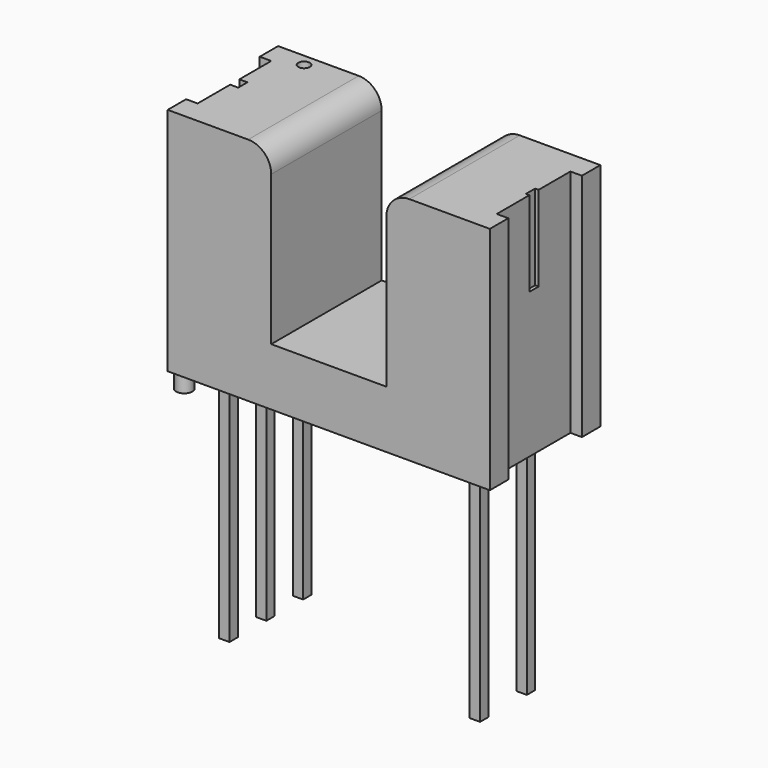
from build123d import *

# Parameters (mm, degrees)
CYLINDER_R        = 0.35
CYLINDER_DEPTH    = 1
CYLINDER001_R     = 0.35
CYLINDER001_DEPTH = 1
BOX_W             = 0.45
BOX_H             = 0.45
BOX_DEPTH         = 11
BOX001_W          = 0.45
BOX001_H          = 0.45
BOX001_DEPTH      = 11
BOX002_W          = 0.45
BOX002_H          = 0.45
BOX002_DEPTH      = 11
BOX003_W          = 0.45
BOX003_H          = 0.45
BOX003_DEPTH      = 11
BOX004_W          = 0.45
BOX004_H          = 0.45
BOX004_DEPTH      = 11
CYLINDER002_R     = 0.25
CYLINDER002_DEPTH = 1
BOX006_W          = 0.5
BOX006_H          = 0.5
BOX006_DEPTH      = 4
BOX007_W          = 0.5
BOX007_H          = 0.5
BOX007_DEPTH      = 4
BOX005_W          = 5
BOX005_H          = 8
BOX005_DEPTH      = 7.5
PAD_DEPTH         = 10
FILLET_R          = 1
FILLET001_R       = 1


with BuildPart() as support_beneath002:
    # Cylinder → Cylinder (new body)
    with BuildSketch(Plane(origin=(-1.45, -4.6, -0.7), x_dir=(1, 0, 0), z_dir=(0, 0, 1))):
        Circle(CYLINDER_R)
    extrude(amount=CYLINDER_DEPTH)


with BuildPart() as support_beneath001:
    # Cylinder001 → Cylinder001 (new body)
    with BuildSketch(Plane(origin=(7.5, 0.6, -0.7), x_dir=(1, 0, 0), z_dir=(0, 0, 1))):
        Circle(CYLINDER001_R)
    extrude(amount=CYLINDER001_DEPTH)


with BuildPart() as pin001:
    # Box → Box (new body)
    with BuildSketch(Plane(origin=(-0.23, -0.23, -10), x_dir=(1, 0, 0), z_dir=(0, 0, 1))):
        with Locations((0.225, 0.225)):
            Rectangle(BOX_W, BOX_H)
    extrude(amount=BOX_DEPTH)


with BuildPart() as pin003:
    # Box001 → Box001 (new body)
    with BuildSketch(Plane(origin=(-0.23, -4.23, -10), x_dir=(1, 0, 0), z_dir=(0, 0, 1))):
        with Locations((0.225, 0.225)):
            Rectangle(BOX001_W, BOX001_H)
    extrude(amount=BOX001_DEPTH)


with BuildPart() as pin005:
    # Box002 → Box002 (new body)
    with BuildSketch(Plane(origin=(10.075, -0.96, -10), x_dir=(1, 0, 0), z_dir=(0, 0, 1))):
        with Locations((0.225, 0.225)):
            Rectangle(BOX002_W, BOX002_H)
    extrude(amount=BOX002_DEPTH)


with BuildPart() as pin002:
    # Box003 → Box003 (new body)
    with BuildSketch(Plane(origin=(-0.23, -2.23, -10), x_dir=(1, 0, 0), z_dir=(0, 0, 1))):
        with Locations((0.225, 0.225)):
            Rectangle(BOX003_W, BOX003_H)
    extrude(amount=BOX003_DEPTH)


with BuildPart() as pin004:
    # Box004 → Box004 (new body)
    with BuildSketch(Plane(origin=(10.075, -3.5, -10), x_dir=(1, 0, 0), z_dir=(0, 0, 1))):
        with Locations((0.225, 0.225)):
            Rectangle(BOX004_W, BOX004_H)
    extrude(amount=BOX004_DEPTH)


with BuildPart() as vcc_marking:
    # Cylinder002 → Cylinder002 (new body)
    with BuildSketch(Plane(origin=(-0.3, 1.2, 10), x_dir=(1, 0, 0), z_dir=(0, 0, 1))):
        Circle(CYLINDER002_R)
    extrude(amount=CYLINDER002_DEPTH)


with BuildPart() as kub006:
    # Box006 → Box006 (new body)
    with BuildSketch(Plane(origin=(-1.5, -1.5, 7), x_dir=(1, 0, 0), z_dir=(0, 0, 1))):
        with Locations((0.25, 0.25)):
            Rectangle(BOX006_W, BOX006_H)
    extrude(amount=BOX006_DEPTH)


with BuildPart() as kub007:
    # Box007 → Box007 (new body)
    with BuildSketch(Plane(origin=(11.5, -1.5, 7), x_dir=(1, 0, 0), z_dir=(0, 0, 1))):
        with Locations((0.25, 0.25)):
            Rectangle(BOX007_W, BOX007_H)
    extrude(amount=BOX007_DEPTH)


with BuildPart() as kub005:
    # Box005 → Box005 (new body)
    with BuildSketch(Plane(origin=(2.65, -5, 3.2), x_dir=(1, 0, 0), z_dir=(0, 0, 1))):
        with Locations((2.5, 4)):
            Rectangle(BOX005_W, BOX005_H)
    extrude(amount=BOX005_DEPTH)


with BuildPart() as cut003:
    # Sketch → Pad (new body)
    with BuildSketch(Plane.XY):
        Polygon((-1.85, 1.73), (12.15, 1.73), (12.15, 0.73), (11.65, 0.73), (11.65, -3.27), (12.15, -3.27), (12.15, -4.27), (-1.85, -4.27), (-1.85, -3.27), (-1.35, -3.27), (-1.35, 0.73), (-1.85, 0.73), align=None)
    extrude(amount=PAD_DEPTH)


with BuildPart() as cut003_1:
    # Body placement: moved
    add(cut003.part.moved(Location((0, 0, 0.7))))

    # Cut: cut Kub005
    add(kub005.part, mode=Mode.SUBTRACT)

    # Fillet
    fillet_edges = [cut003_1.edges().sort_by_distance(p)[0] for p in [
        (7.65, -1.27, 10.7),
    ]]
    fillet(fillet_edges, radius=FILLET_R)

    # Fillet001
    fillet001_edges = [cut003_1.edges().sort_by_distance(p)[0] for p in [
        (2.65, -1.27, 10.7),
    ]]
    fillet(fillet001_edges, radius=FILLET001_R)

    # Cut001: cut Kub007
    add(kub007.part, mode=Mode.SUBTRACT)

    # Cut002: cut Kub006
    add(kub006.part, mode=Mode.SUBTRACT)

    # Cut003: cut VCC marking
    add(vcc_marking.part, mode=Mode.SUBTRACT)


with BuildPart() as cut003_2:
    # Cut003 placement: moved
    add(cut003_1.part.moved(Location((0, -0.73, -0.7))))


solid = Compound([support_beneath002.part, support_beneath001.part, pin001.part, pin003.part, pin005.part, pin002.part, pin004.part, cut003_2.part])
